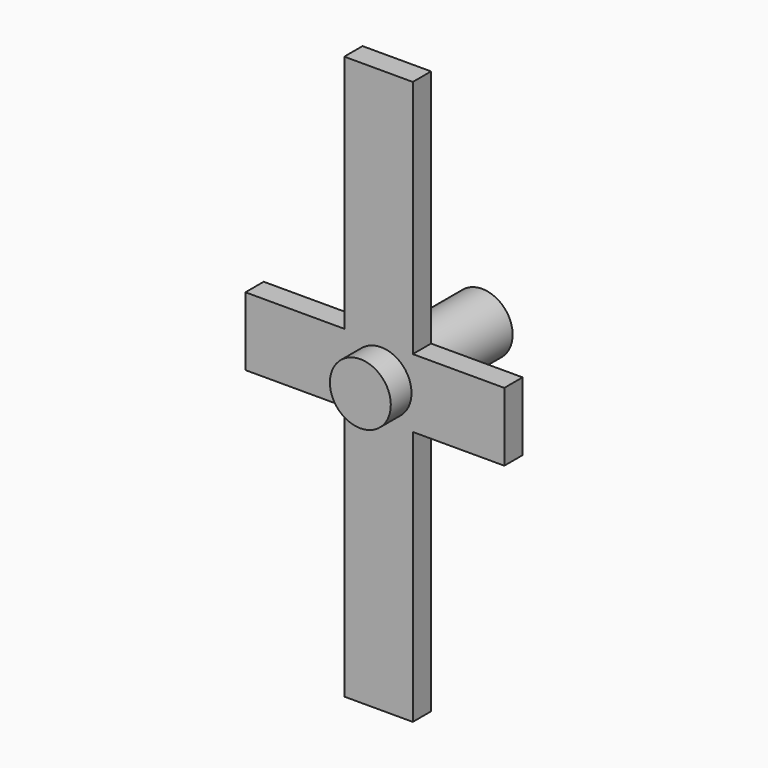
from build123d import *

# Parameters (mm, degrees)
CYLINDER037_R             = 2
CYLINDER037_DEPTH         = 10
BOX005_W                  = 37
BOX005_H                  = 4.5
BOX005_DEPTH              = 1.5
BOX006_W                  = 17
BOX006_H                  = 4.5
BOX006_DEPTH              = 1.5
BOX006_PLACEMENT_ANGLE    = 90
FUSION006_PITCH_ANGLE     = 90
FUSION006_PLACEMENT_ANGLE = -90


with BuildPart() as cylinder037:
    # Cylinder037 → Cylinder037 (new body)
    with BuildSketch(Plane(origin=(34.5, 34.5, 10.7594), x_dir=(1, 0, 0), z_dir=(0, 0, 1))):
        Circle(CYLINDER037_R)
    extrude(amount=CYLINDER037_DEPTH)


with BuildPart() as box005:
    # Box005 → Box005 (new body)
    with BuildSketch(Plane.XY):
        with Locations((18.5, 2.25)):
            Rectangle(BOX005_W, BOX005_H)
    extrude(amount=BOX005_DEPTH)


with BuildPart() as fusion006:
    # Box006 → Box006 (new body)
    with BuildSketch(Plane.XY):
        with Locations((8.5, 2.25)):
            Rectangle(BOX006_W, BOX006_H)
    extrude(amount=BOX006_DEPTH)


with BuildPart() as fusion006_1:
    # Box006 placement: moved
    add(fusion006.part.moved(Location((20.2342, -6.49055, 0))).rotate(Axis((20.2342, -6.49055, 0), (0, 0, 1)), BOX006_PLACEMENT_ANGLE))

    # Fusion004: union Box005
    add(box005.part)


with BuildPart() as fusion006_2:
    # Fusion004 placement: moved
    add(fusion006_1.part.moved(Location((16.4876, 32.0839, 17.56))))

    # Fusion006: union Cylinder037
    add(cylinder037.part)


with BuildPart() as fusion006_3:
    # Fusion006 pitch: moved
    add(fusion006_2.part.rotate(Axis((0, 0, 0), (0, 1, 0)), FUSION006_PITCH_ANGLE))


with BuildPart() as fusion006_4:
    # Fusion006 placement: moved
    add(fusion006_3.part.moved(Location((-48.6, 17.44, 105.53))).rotate(Axis((-48.6, 17.44, 105.53), (0, 0, 1)), FUSION006_PLACEMENT_ANGLE))


solid = fusion006_4.part
